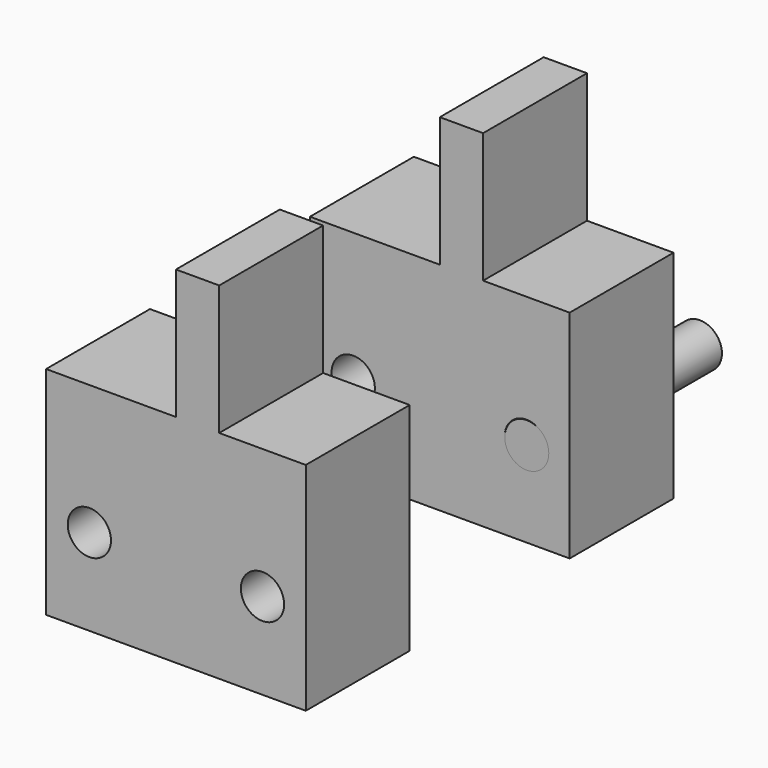
from build123d import *

# Parameters (mm, degrees)
F0_W     = 10
F0_H     = 30
F0_H_2   = 2.1606385315
F1_DEPTH = 30
F2_R     = 5
F3_DEPTH = 30.001
F5_R     = 5.0902393498
F6_DEPTH = 50


with BuildPart() as f1:
    # F0 (on Front) → F1 (new body)
    with BuildSketch(Plane.XZ):
        Polygon((40, 50), (40, 47.8393614685), (30, 47.8393614685), (30, 50), (0, 50), (0, 0), (60, 0), (60, 50), align=None)
        with Locations((35, 65)):
            Rectangle(F0_W, F0_H)
        with Locations((35, 48.9196807342)):
            Rectangle(F0_W, F0_H_2)
    extrude(amount=F1_DEPTH)

    # F2 (on face) → F3 (cut, through all)
    with BuildSketch(Plane.XZ.offset(30)):
        with Locations((10, 20)):
            Circle(F2_R)
        with Locations((50, 20)):
            Circle(F2_R)
    extrude(amount=-F3_DEPTH, mode=Mode.SUBTRACT)


with BuildPart() as f4_1:
    # F4: copy of F1
    add(f1.part.moved(Location((0, -76.2, 0))))


with BuildPart() as f6:
    # F5 (on face) → F6 (new body)
    with BuildSketch(Plane.XZ.offset(30)):
        with Locations((50.0867284417, 19.8269895723)):
            Circle(F5_R)
    extrude(amount=-F6_DEPTH)


solid = Compound([f1.part, f4_1.part, f6.part])
